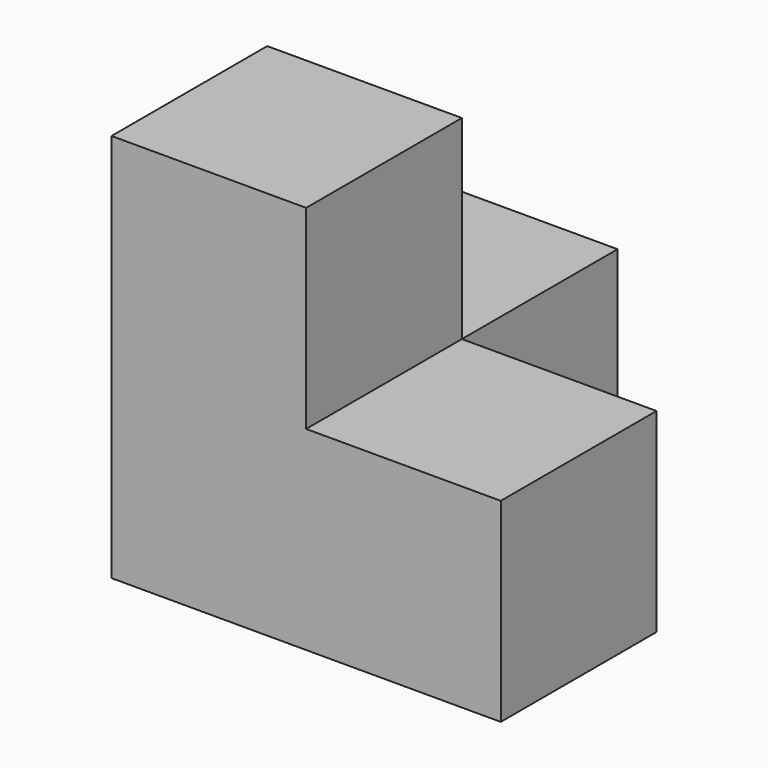
from build123d import *

# Parameters (mm, degrees)
BOX002_W     = 10
BOX002_H     = 10
BOX002_DEPTH = 10
BOX_W        = 10
BOX_H        = 10
BOX_DEPTH    = 20
BOX001_W     = 10
BOX001_H     = 10
BOX001_DEPTH = 10


with BuildPart() as cub002:
    # Box002 → Box002 (new body)
    with BuildSketch(Plane(origin=(10, 0, 0), x_dir=(1, 0, 0), z_dir=(0, 0, 1))):
        with Locations((5, 5)):
            Rectangle(BOX002_W, BOX002_H)
    extrude(amount=BOX002_DEPTH)


with BuildPart() as cub:
    # Box → Box (new body)
    with BuildSketch(Plane.XY):
        with Locations((5, 5)):
            Rectangle(BOX_W, BOX_H)
    extrude(amount=BOX_DEPTH)


with BuildPart() as fusion:
    # Box001 → Box001 (new body)
    with BuildSketch(Plane(origin=(0, 10, 0), x_dir=(1, 0, 0), z_dir=(0, 0, 1))):
        with Locations((5, 5)):
            Rectangle(BOX001_W, BOX001_H)
    extrude(amount=BOX001_DEPTH)

    # Fusion: union Cub002, Cub
    add(cub002.part)
    add(cub.part)


solid = fusion.part
